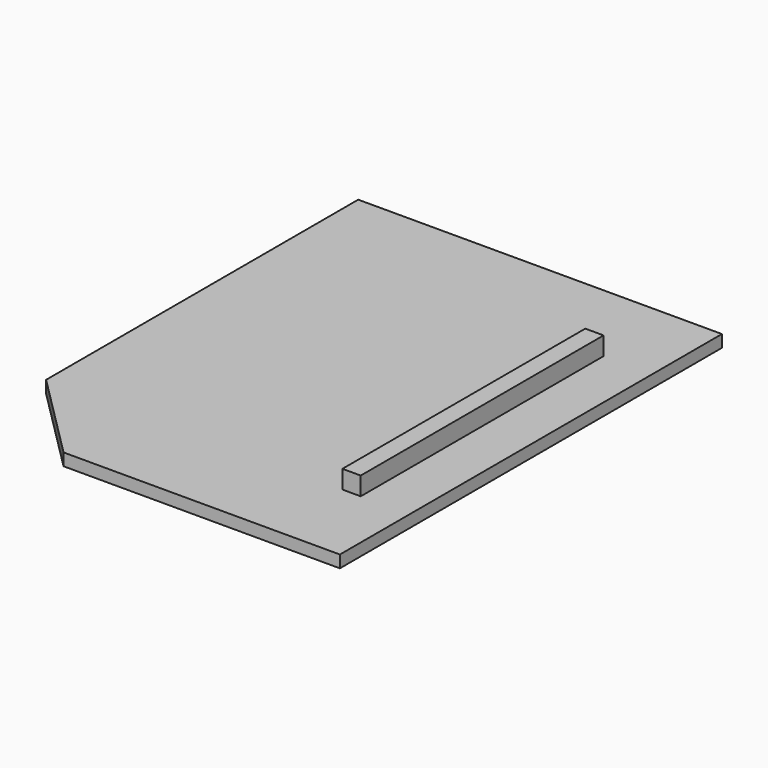
from build123d import *

# Parameters (mm, degrees)
F1_DEPTH = 0.6
F2_W     = 0.9
F2_H     = 14.94
F3_DEPTH = 0.9


with BuildPart() as f1:
    # F0 (on Top) → F1 (new body)
    with BuildSketch(Plane.XY):
        Polygon((-4.938239, 19.916893), (-22.838239, 19.916893), (-22.838239, 0.716893), (-18.538239, -3.583107), (-4.938239, -3.583107), align=None)
    extrude(amount=F1_DEPTH)

    # F2 (on face) → F3 (join)
    with BuildSketch(Plane.XY.offset(0.6)):
        with Locations((-7.788239, 8.166893)):
            Rectangle(F2_W, F2_H)
    extrude(amount=F3_DEPTH)


solid = f1.part
